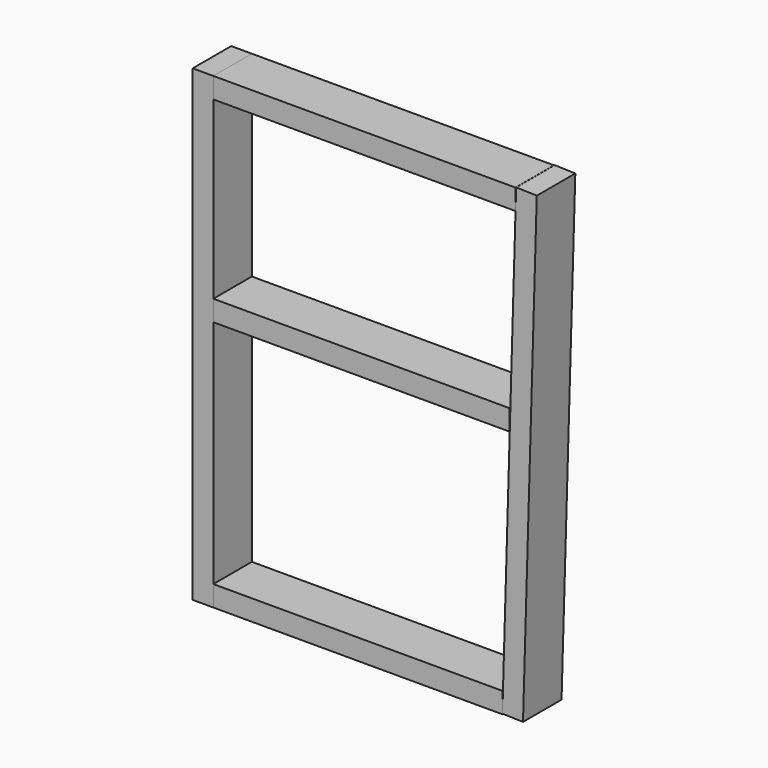
from build123d import *

# Parameters (mm, degrees)
F0_W     = 38.1
F0_H     = 863.6
F1_DEPTH = 88.9
F2_W     = 557.656947
F2_H     = 38.1
F2_W_2   = 533.367027
F2_W_3   = 547.006752
F3_DEPTH = 88.9


with BuildPart() as f1:
    # F0 (on Front) → F1 (new body)
    with BuildSketch(Plane.XZ):
        with Locations((-552.45, 431.8)):
            Rectangle(F0_W, F0_H)
        Polygon((63.483517, 863.22639), (25.4, 864.346978), (0, 1.120588), (38.083517, 0), align=None)
    extrude(amount=F1_DEPTH)


with BuildPart() as f3:
    # F2 (on Front) → F3 (new body)
    with BuildSketch(Plane.XZ):
        with Locations((-254.571526, 844.55)):
            Rectangle(F2_W, F2_H)
        with Locations((-266.716486, 19.05)):
            Rectangle(F2_W_2, F2_H)
        with Locations((-259.896624, 482.6)):
            Rectangle(F2_W_3, F2_H)
    extrude(amount=F3_DEPTH)


solid = Compound([f1.part, f3.part])
